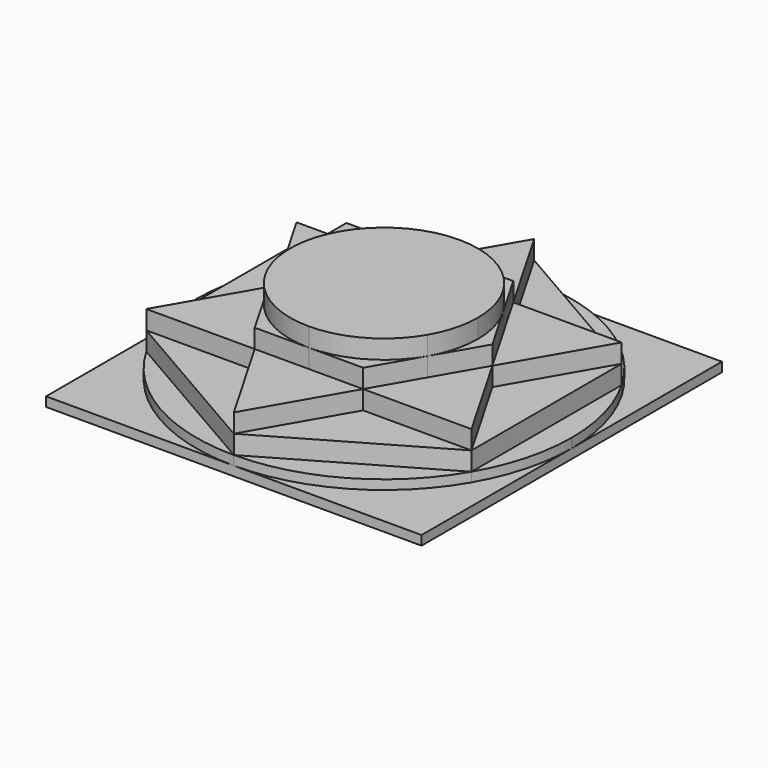
from build123d import *

# Parameters (mm, degrees)
F1_DEPTH = 25
F2_DEPTH = 20
F3_DEPTH = 15
F4_DEPTH = 10
F5_DEPTH = 5
F6_DEPTH = 2.5


with BuildPart() as f1:
    # F0 (on Top) → F1 (new body)
    with BuildSketch(Plane.XY):
        with BuildLine():
            ThreePointArc((25, 0), (24.148145622, 6.4704762591), (21.6506349584, 12.5000002359))
            ThreePointArc((21.6506349584, 12.5000002359), (12.4999998821, 21.6506351627), (0, 25))
            ThreePointArc((0, 25), (-12.4999999326, 21.6506351336), (-21.6506350167, 12.5000001349))
            ThreePointArc((-21.6506350167, 12.5000001349), (-25, 2.62e-08), (-21.6506350429, -12.5000000895))
            ThreePointArc((-21.6506350429, -12.5000000895), (-12.4999999395, -21.6506351296), (3.65e-08, -25))
            ThreePointArc((3.65e-08, -25), (12.4999998892, -21.6506351586), (21.6506349484, -12.5000002532))
            ThreePointArc((21.6506349484, -12.5000002532), (24.1481456194, -6.4704762687), (25, 0))
        make_face()
    extrude(amount=F1_DEPTH)


with BuildPart() as f2:
    # F0 (on Top) → F2 (new body)
    with BuildSketch(Plane.XY):
        with BuildLine():
            Line((0, 25), (-14.4337567297, 25))
            Line((-14.4337567297, 25), (-21.6506350167, 12.5000001349))
            ThreePointArc((-21.6506350167, 12.5000001349), (-12.4999999326, 21.6506351336), (0, 25))
        make_face()
    extrude(amount=F2_DEPTH)


with BuildPart() as f2b:
    # F0 (on Top) → F2, piece 2 (new body)
    with BuildSketch(Plane.XY):
        with BuildLine():
            Line((21.6506349484, -12.5000002532), (28.8675134595, 0))
            Line((28.8675134595, 0), (21.6506349584, 12.5000002359))
            ThreePointArc((21.6506349584, 12.5000002359), (24.148145622, 6.4704762591), (25, 0))
            ThreePointArc((25, 0), (24.1481456194, -6.4704762687), (21.6506349484, -12.5000002532))
        make_face()
    extrude(amount=F2_DEPTH)


with BuildPart() as f2c:
    # F0 (on Top) → F2, piece 3 (new body)
    with BuildSketch(Plane.XY):
        with BuildLine():
            Line((21.6506349584, 12.5000002359), (14.4337567297, 25))
            Line((14.4337567297, 25), (0, 25))
            ThreePointArc((0, 25), (12.4999998821, 21.6506351627), (21.6506349584, 12.5000002359))
        make_face()
    extrude(amount=F2_DEPTH)


with BuildPart() as f2d:
    # F0 (on Top) → F2, piece 4 (new body)
    with BuildSketch(Plane.XY):
        with BuildLine():
            Line((3.65e-08, -25), (14.4337567297, -25))
            Line((14.4337567297, -25), (21.6506349484, -12.5000002532))
            ThreePointArc((21.6506349484, -12.5000002532), (12.4999998892, -21.6506351586), (3.65e-08, -25))
        make_face()
    extrude(amount=F2_DEPTH)


with BuildPart() as f2e:
    # F0 (on Top) → F2, piece 5 (new body)
    with BuildSketch(Plane.XY):
        with BuildLine():
            Line((-21.6506350429, -12.5000000895), (-14.4337567297, -25))
            Line((-14.4337567297, -25), (3.65e-08, -25))
            ThreePointArc((3.65e-08, -25), (-12.4999999395, -21.6506351296), (-21.6506350429, -12.5000000895))
        make_face()
    extrude(amount=F2_DEPTH)


with BuildPart() as f2f:
    # F0 (on Top) → F2, piece 6 (new body)
    with BuildSketch(Plane.XY):
        with BuildLine():
            Line((-21.6506350167, 12.5000001349), (-28.8675134595, 0))
            Line((-28.8675134595, 0), (-21.6506350429, -12.5000000895))
            ThreePointArc((-21.6506350429, -12.5000000895), (-25, 2.62e-08), (-21.6506350167, 12.5000001349))
        make_face()
    extrude(amount=F2_DEPTH)


with BuildPart() as f3:
    # F0 (on Top) → F3 (new body)
    with BuildSketch(Plane.XY):
        Polygon((14.4337567297, 25), (0, 50), (-14.4337567297, 25), (0, 25), align=None)
        Polygon((28.8675134595, 0), (43.3012701892, 25), (14.4337567297, 25), (21.6506349584, 12.5000002359), align=None)
        Polygon((14.4337567297, -25), (43.3012701892, -25), (28.8675134595, 0), (21.6506349484, -12.5000002532), align=None)
        Polygon((-14.4337567297, -25), (0, -50), (14.4337567297, -25), (3.65e-08, -25), align=None)
        Polygon((-28.8675134595, 0), (-43.3012701892, -25), (-14.4337567297, -25), (-21.6506350429, -12.5000000895), align=None)
        Polygon((-14.4337567297, 25), (-43.3012701892, 25), (-28.8675134595, 0), (-21.6506350167, 12.5000001349), align=None)
        with BuildLine():
            Line((0, 25), (-14.4337567297, 25))
            Line((-14.4337567297, 25), (-21.6506350167, 12.5000001349))
            ThreePointArc((-21.6506350167, 12.5000001349), (-12.4999999326, 21.6506351336), (0, 25))
        make_face()
        with BuildLine():
            Line((21.6506349584, 12.5000002359), (14.4337567297, 25))
            Line((14.4337567297, 25), (0, 25))
            ThreePointArc((0, 25), (12.4999998821, 21.6506351627), (21.6506349584, 12.5000002359))
        make_face()
        with BuildLine():
            Line((21.6506349484, -12.5000002532), (28.8675134595, 0))
            Line((28.8675134595, 0), (21.6506349584, 12.5000002359))
            ThreePointArc((21.6506349584, 12.5000002359), (24.148145622, 6.4704762591), (25, 0))
            ThreePointArc((25, 0), (24.1481456194, -6.4704762687), (21.6506349484, -12.5000002532))
        make_face()
        with BuildLine():
            Line((3.65e-08, -25), (14.4337567297, -25))
            Line((14.4337567297, -25), (21.6506349484, -12.5000002532))
            ThreePointArc((21.6506349484, -12.5000002532), (12.4999998892, -21.6506351586), (3.65e-08, -25))
        make_face()
        with BuildLine():
            Line((-21.6506350429, -12.5000000895), (-14.4337567297, -25))
            Line((-14.4337567297, -25), (3.65e-08, -25))
            ThreePointArc((3.65e-08, -25), (-12.4999999395, -21.6506351296), (-21.6506350429, -12.5000000895))
        make_face()
        with BuildLine():
            Line((-21.6506350167, 12.5000001349), (-28.8675134595, 0))
            Line((-28.8675134595, 0), (-21.6506350429, -12.5000000895))
            ThreePointArc((-21.6506350429, -12.5000000895), (-25, 2.62e-08), (-21.6506350167, 12.5000001349))
        make_face()
        with BuildLine():
            ThreePointArc((25, 0), (24.148145622, 6.4704762591), (21.6506349584, 12.5000002359))
            ThreePointArc((21.6506349584, 12.5000002359), (12.4999998821, 21.6506351627), (0, 25))
            ThreePointArc((0, 25), (-12.4999999326, 21.6506351336), (-21.6506350167, 12.5000001349))
            ThreePointArc((-21.6506350167, 12.5000001349), (-25, 2.62e-08), (-21.6506350429, -12.5000000895))
            ThreePointArc((-21.6506350429, -12.5000000895), (-12.4999999395, -21.6506351296), (3.65e-08, -25))
            ThreePointArc((3.65e-08, -25), (12.4999998892, -21.6506351586), (21.6506349484, -12.5000002532))
            ThreePointArc((21.6506349484, -12.5000002532), (24.1481456194, -6.4704762687), (25, 0))
        make_face()
    extrude(amount=F3_DEPTH)


with BuildPart() as f4:
    # F0 (on Top) → F4 (new body)
    with BuildSketch(Plane.XY):
        Polygon((-14.4337567297, 25), (0, 50), (-43.3012701892, 25), align=None)
        Polygon((14.4337567297, 25), (43.3012701892, 25), (0, 50), align=None)
        Polygon((43.3012701892, -25), (43.3012701892, 25), (28.8675134595, 0), align=None)
        Polygon((0, -50), (43.3012701892, -25), (14.4337567297, -25), align=None)
        Polygon((-43.3012701892, -25), (0, -50), (-14.4337567297, -25), align=None)
        Polygon((-28.8675134595, 0), (-43.3012701892, 25), (-43.3012701892, -25), align=None)
        Polygon((-14.4337567297, 25), (-43.3012701892, 25), (-28.8675134595, 0), (-21.6506350167, 12.5000001349), align=None)
        Polygon((14.4337567297, 25), (0, 50), (-14.4337567297, 25), (0, 25), align=None)
        Polygon((28.8675134595, 0), (43.3012701892, 25), (14.4337567297, 25), (21.6506349584, 12.5000002359), align=None)
        Polygon((14.4337567297, -25), (43.3012701892, -25), (28.8675134595, 0), (21.6506349484, -12.5000002532), align=None)
        Polygon((-14.4337567297, -25), (0, -50), (14.4337567297, -25), (3.65e-08, -25), align=None)
        Polygon((-28.8675134595, 0), (-43.3012701892, -25), (-14.4337567297, -25), (-21.6506350429, -12.5000000895), align=None)
        with BuildLine():
            Line((-21.6506350167, 12.5000001349), (-28.8675134595, 0))
            Line((-28.8675134595, 0), (-21.6506350429, -12.5000000895))
            ThreePointArc((-21.6506350429, -12.5000000895), (-25, 2.62e-08), (-21.6506350167, 12.5000001349))
        make_face()
        with BuildLine():
            Line((0, 25), (-14.4337567297, 25))
            Line((-14.4337567297, 25), (-21.6506350167, 12.5000001349))
            ThreePointArc((-21.6506350167, 12.5000001349), (-12.4999999326, 21.6506351336), (0, 25))
        make_face()
        with BuildLine():
            Line((21.6506349584, 12.5000002359), (14.4337567297, 25))
            Line((14.4337567297, 25), (0, 25))
            ThreePointArc((0, 25), (12.4999998821, 21.6506351627), (21.6506349584, 12.5000002359))
        make_face()
        with BuildLine():
            Line((21.6506349484, -12.5000002532), (28.8675134595, 0))
            Line((28.8675134595, 0), (21.6506349584, 12.5000002359))
            ThreePointArc((21.6506349584, 12.5000002359), (24.148145622, 6.4704762591), (25, 0))
            ThreePointArc((25, 0), (24.1481456194, -6.4704762687), (21.6506349484, -12.5000002532))
        make_face()
        with BuildLine():
            Line((3.65e-08, -25), (14.4337567297, -25))
            Line((14.4337567297, -25), (21.6506349484, -12.5000002532))
            ThreePointArc((21.6506349484, -12.5000002532), (12.4999998892, -21.6506351586), (3.65e-08, -25))
        make_face()
        with BuildLine():
            Line((-21.6506350429, -12.5000000895), (-14.4337567297, -25))
            Line((-14.4337567297, -25), (3.65e-08, -25))
            ThreePointArc((3.65e-08, -25), (-12.4999999395, -21.6506351296), (-21.6506350429, -12.5000000895))
        make_face()
        with BuildLine():
            ThreePointArc((25, 0), (24.148145622, 6.4704762591), (21.6506349584, 12.5000002359))
            ThreePointArc((21.6506349584, 12.5000002359), (12.4999998821, 21.6506351627), (0, 25))
            ThreePointArc((0, 25), (-12.4999999326, 21.6506351336), (-21.6506350167, 12.5000001349))
            ThreePointArc((-21.6506350167, 12.5000001349), (-25, 2.62e-08), (-21.6506350429, -12.5000000895))
            ThreePointArc((-21.6506350429, -12.5000000895), (-12.4999999395, -21.6506351296), (3.65e-08, -25))
            ThreePointArc((3.65e-08, -25), (12.4999998892, -21.6506351586), (21.6506349484, -12.5000002532))
            ThreePointArc((21.6506349484, -12.5000002532), (24.1481456194, -6.4704762687), (25, 0))
        make_face()
    extrude(amount=F4_DEPTH)


with BuildPart() as f5:
    # F0 (on Top) → F5 (new body)
    with BuildSketch(Plane.XY):
        with BuildLine():
            Line((-43.3012701892, 25), (0, 50))
            ThreePointArc((0, 50), (-25, 43.3012701892), (-43.3012701892, 25))
        make_face()
        with BuildLine():
            Line((0, 50), (43.3012701892, 25))
            ThreePointArc((43.3012701892, 25), (25, 43.3012701892), (0, 50))
        make_face()
        with BuildLine():
            ThreePointArc((43.3012701892, -25), (48.2962913145, -12.9409522551), (50, 0))
            ThreePointArc((50, 0), (48.2962913145, 12.9409522551), (43.3012701892, 25))
            Line((43.3012701892, 25), (43.3012701892, -25))
        make_face()
        with BuildLine():
            ThreePointArc((0, -50), (25, -43.3012701892), (43.3012701892, -25))
            Line((43.3012701892, -25), (0, -50))
        make_face()
        with BuildLine():
            ThreePointArc((-43.3012701892, -25), (-25, -43.3012701892), (0, -50))
            Line((0, -50), (-43.3012701892, -25))
        make_face()
        with BuildLine():
            Line((-43.3012701892, -25), (-43.3012701892, 25))
            ThreePointArc((-43.3012701892, 25), (-48.2962913145, 12.9409522551), (-50, 0))
            ThreePointArc((-50, 0), (-48.2962913145, -12.9409522551), (-43.3012701892, -25))
        make_face()
        Polygon((-14.4337567297, 25), (0, 50), (-43.3012701892, 25), align=None)
        Polygon((14.4337567297, 25), (43.3012701892, 25), (0, 50), align=None)
        Polygon((43.3012701892, -25), (43.3012701892, 25), (28.8675134595, 0), align=None)
        Polygon((0, -50), (43.3012701892, -25), (14.4337567297, -25), align=None)
        Polygon((-43.3012701892, -25), (0, -50), (-14.4337567297, -25), align=None)
        Polygon((-28.8675134595, 0), (-43.3012701892, 25), (-43.3012701892, -25), align=None)
        Polygon((14.4337567297, 25), (0, 50), (-14.4337567297, 25), (0, 25), align=None)
        Polygon((28.8675134595, 0), (43.3012701892, 25), (14.4337567297, 25), (21.6506349584, 12.5000002359), align=None)
        Polygon((14.4337567297, -25), (43.3012701892, -25), (28.8675134595, 0), (21.6506349484, -12.5000002532), align=None)
        Polygon((-14.4337567297, -25), (0, -50), (14.4337567297, -25), (3.65e-08, -25), align=None)
        Polygon((-28.8675134595, 0), (-43.3012701892, -25), (-14.4337567297, -25), (-21.6506350429, -12.5000000895), align=None)
        Polygon((-14.4337567297, 25), (-43.3012701892, 25), (-28.8675134595, 0), (-21.6506350167, 12.5000001349), align=None)
        with BuildLine():
            Line((0, 25), (-14.4337567297, 25))
            Line((-14.4337567297, 25), (-21.6506350167, 12.5000001349))
            ThreePointArc((-21.6506350167, 12.5000001349), (-12.4999999326, 21.6506351336), (0, 25))
        make_face()
        with BuildLine():
            Line((21.6506349584, 12.5000002359), (14.4337567297, 25))
            Line((14.4337567297, 25), (0, 25))
            ThreePointArc((0, 25), (12.4999998821, 21.6506351627), (21.6506349584, 12.5000002359))
        make_face()
        with BuildLine():
            Line((21.6506349484, -12.5000002532), (28.8675134595, 0))
            Line((28.8675134595, 0), (21.6506349584, 12.5000002359))
            ThreePointArc((21.6506349584, 12.5000002359), (24.148145622, 6.4704762591), (25, 0))
            ThreePointArc((25, 0), (24.1481456194, -6.4704762687), (21.6506349484, -12.5000002532))
        make_face()
        with BuildLine():
            Line((3.65e-08, -25), (14.4337567297, -25))
            Line((14.4337567297, -25), (21.6506349484, -12.5000002532))
            ThreePointArc((21.6506349484, -12.5000002532), (12.4999998892, -21.6506351586), (3.65e-08, -25))
        make_face()
        with BuildLine():
            Line((-21.6506350429, -12.5000000895), (-14.4337567297, -25))
            Line((-14.4337567297, -25), (3.65e-08, -25))
            ThreePointArc((3.65e-08, -25), (-12.4999999395, -21.6506351296), (-21.6506350429, -12.5000000895))
        make_face()
        with BuildLine():
            Line((-21.6506350167, 12.5000001349), (-28.8675134595, 0))
            Line((-28.8675134595, 0), (-21.6506350429, -12.5000000895))
            ThreePointArc((-21.6506350429, -12.5000000895), (-25, 2.62e-08), (-21.6506350167, 12.5000001349))
        make_face()
        with BuildLine():
            ThreePointArc((25, 0), (24.148145622, 6.4704762591), (21.6506349584, 12.5000002359))
            ThreePointArc((21.6506349584, 12.5000002359), (12.4999998821, 21.6506351627), (0, 25))
            ThreePointArc((0, 25), (-12.4999999326, 21.6506351336), (-21.6506350167, 12.5000001349))
            ThreePointArc((-21.6506350167, 12.5000001349), (-25, 2.62e-08), (-21.6506350429, -12.5000000895))
            ThreePointArc((-21.6506350429, -12.5000000895), (-12.4999999395, -21.6506351296), (3.65e-08, -25))
            ThreePointArc((3.65e-08, -25), (12.4999998892, -21.6506351586), (21.6506349484, -12.5000002532))
            ThreePointArc((21.6506349484, -12.5000002532), (24.1481456194, -6.4704762687), (25, 0))
        make_face()
    extrude(amount=F5_DEPTH)


with BuildPart() as f6:
    # F0 (on Top) → F6 (new body)
    with BuildSketch(Plane.XY):
        with BuildLine():
            ThreePointArc((-43.3012701892, 25), (-25, 43.3012701892), (0, 50))
            Line((0, 50), (-50, 50))
            Line((-50, 50), (-50, 0))
            ThreePointArc((-50, 0), (-48.2962913145, 12.9409522551), (-43.3012701892, 25))
        make_face()
        with BuildLine():
            ThreePointArc((43.3012701892, 25), (48.2962913145, 12.9409522551), (50, 0))
            Line((50, 0), (50, 50))
            Line((50, 50), (0, 50))
            ThreePointArc((0, 50), (25, 43.3012701892), (43.3012701892, 25))
        make_face()
        with BuildLine():
            Line((50, -50), (50, 0))
            ThreePointArc((50, 0), (48.2962913145, -12.9409522551), (43.3012701892, -25))
            ThreePointArc((43.3012701892, -25), (25, -43.3012701892), (0, -50))
            Line((0, -50), (50, -50))
        make_face()
        with BuildLine():
            Line((-50, -50), (0, -50))
            ThreePointArc((0, -50), (-25, -43.3012701892), (-43.3012701892, -25))
            ThreePointArc((-43.3012701892, -25), (-48.2962913145, -12.9409522551), (-50, 0))
            Line((-50, 0), (-50, -50))
        make_face()
        with BuildLine():
            Line((-43.3012701892, 25), (0, 50))
            ThreePointArc((0, 50), (-25, 43.3012701892), (-43.3012701892, 25))
        make_face()
        with BuildLine():
            Line((0, 50), (43.3012701892, 25))
            ThreePointArc((43.3012701892, 25), (25, 43.3012701892), (0, 50))
        make_face()
        with BuildLine():
            ThreePointArc((43.3012701892, -25), (48.2962913145, -12.9409522551), (50, 0))
            ThreePointArc((50, 0), (48.2962913145, 12.9409522551), (43.3012701892, 25))
            Line((43.3012701892, 25), (43.3012701892, -25))
        make_face()
        with BuildLine():
            ThreePointArc((0, -50), (25, -43.3012701892), (43.3012701892, -25))
            Line((43.3012701892, -25), (0, -50))
        make_face()
        with BuildLine():
            ThreePointArc((-43.3012701892, -25), (-25, -43.3012701892), (0, -50))
            Line((0, -50), (-43.3012701892, -25))
        make_face()
        with BuildLine():
            Line((-43.3012701892, -25), (-43.3012701892, 25))
            ThreePointArc((-43.3012701892, 25), (-48.2962913145, 12.9409522551), (-50, 0))
            ThreePointArc((-50, 0), (-48.2962913145, -12.9409522551), (-43.3012701892, -25))
        make_face()
        Polygon((-14.4337567297, 25), (0, 50), (-43.3012701892, 25), align=None)
        Polygon((14.4337567297, 25), (43.3012701892, 25), (0, 50), align=None)
        Polygon((43.3012701892, -25), (43.3012701892, 25), (28.8675134595, 0), align=None)
        Polygon((0, -50), (43.3012701892, -25), (14.4337567297, -25), align=None)
        Polygon((-43.3012701892, -25), (0, -50), (-14.4337567297, -25), align=None)
        Polygon((-28.8675134595, 0), (-43.3012701892, 25), (-43.3012701892, -25), align=None)
        Polygon((14.4337567297, 25), (0, 50), (-14.4337567297, 25), (0, 25), align=None)
        Polygon((28.8675134595, 0), (43.3012701892, 25), (14.4337567297, 25), (21.6506349584, 12.5000002359), align=None)
        Polygon((14.4337567297, -25), (43.3012701892, -25), (28.8675134595, 0), (21.6506349484, -12.5000002532), align=None)
        Polygon((-14.4337567297, -25), (0, -50), (14.4337567297, -25), (3.65e-08, -25), align=None)
        Polygon((-28.8675134595, 0), (-43.3012701892, -25), (-14.4337567297, -25), (-21.6506350429, -12.5000000895), align=None)
        Polygon((-14.4337567297, 25), (-43.3012701892, 25), (-28.8675134595, 0), (-21.6506350167, 12.5000001349), align=None)
        with BuildLine():
            Line((0, 25), (-14.4337567297, 25))
            Line((-14.4337567297, 25), (-21.6506350167, 12.5000001349))
            ThreePointArc((-21.6506350167, 12.5000001349), (-12.4999999326, 21.6506351336), (0, 25))
        make_face()
        with BuildLine():
            Line((21.6506349584, 12.5000002359), (14.4337567297, 25))
            Line((14.4337567297, 25), (0, 25))
            ThreePointArc((0, 25), (12.4999998821, 21.6506351627), (21.6506349584, 12.5000002359))
        make_face()
        with BuildLine():
            Line((21.6506349484, -12.5000002532), (28.8675134595, 0))
            Line((28.8675134595, 0), (21.6506349584, 12.5000002359))
            ThreePointArc((21.6506349584, 12.5000002359), (24.148145622, 6.4704762591), (25, 0))
            ThreePointArc((25, 0), (24.1481456194, -6.4704762687), (21.6506349484, -12.5000002532))
        make_face()
        with BuildLine():
            Line((3.65e-08, -25), (14.4337567297, -25))
            Line((14.4337567297, -25), (21.6506349484, -12.5000002532))
            ThreePointArc((21.6506349484, -12.5000002532), (12.4999998892, -21.6506351586), (3.65e-08, -25))
        make_face()
        with BuildLine():
            Line((-21.6506350429, -12.5000000895), (-14.4337567297, -25))
            Line((-14.4337567297, -25), (3.65e-08, -25))
            ThreePointArc((3.65e-08, -25), (-12.4999999395, -21.6506351296), (-21.6506350429, -12.5000000895))
        make_face()
        with BuildLine():
            Line((-21.6506350167, 12.5000001349), (-28.8675134595, 0))
            Line((-28.8675134595, 0), (-21.6506350429, -12.5000000895))
            ThreePointArc((-21.6506350429, -12.5000000895), (-25, 2.62e-08), (-21.6506350167, 12.5000001349))
        make_face()
        with BuildLine():
            ThreePointArc((25, 0), (24.148145622, 6.4704762591), (21.6506349584, 12.5000002359))
            ThreePointArc((21.6506349584, 12.5000002359), (12.4999998821, 21.6506351627), (0, 25))
            ThreePointArc((0, 25), (-12.4999999326, 21.6506351336), (-21.6506350167, 12.5000001349))
            ThreePointArc((-21.6506350167, 12.5000001349), (-25, 2.62e-08), (-21.6506350429, -12.5000000895))
            ThreePointArc((-21.6506350429, -12.5000000895), (-12.4999999395, -21.6506351296), (3.65e-08, -25))
            ThreePointArc((3.65e-08, -25), (12.4999998892, -21.6506351586), (21.6506349484, -12.5000002532))
            ThreePointArc((21.6506349484, -12.5000002532), (24.1481456194, -6.4704762687), (25, 0))
        make_face()
    extrude(amount=F6_DEPTH)


solid = Compound([f1.part, f2.part, f2b.part, f2c.part, f2d.part, f2e.part, f2f.part, f3.part, f4.part, f5.part, f6.part])
